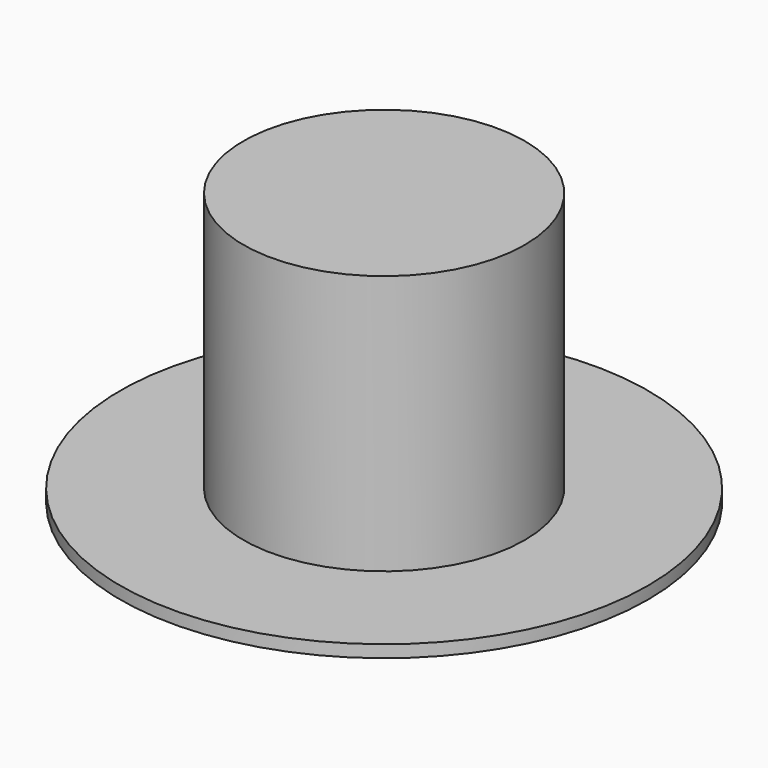
from build123d import *

# Parameters (mm, degrees)
F0_R     = 13.7
F0_R_2   = 12.5
F1_DEPTH = 25
F2_R     = 13.7
F3_DEPTH = 1.5
F4_R     = 25.7
F4_R_2   = 13.7
F5_DEPTH = 1.2


with BuildPart() as f1:
    # F0 (on Top) → F1 (new body)
    with BuildSketch(Plane.XY):
        Circle(F0_R)
        Circle(F0_R_2, mode=Mode.SUBTRACT)
    extrude(amount=F1_DEPTH)

    # F2 (on face) → F3 (join)
    with BuildSketch(Plane.XY.offset(25)):
        Circle(F2_R)
    extrude(amount=F3_DEPTH)

    # F4 (on face) → F5 (join)
    with BuildSketch(Plane(origin=(0, 0, 0), x_dir=(1, 0, 0), z_dir=(0, 0, -1))):
        Circle(F4_R)
        Circle(F4_R_2, mode=Mode.SUBTRACT)
        Circle(F4_R)
        Circle(F4_R_2, mode=Mode.SUBTRACT)
    extrude(amount=-F5_DEPTH)


solid = f1.part
